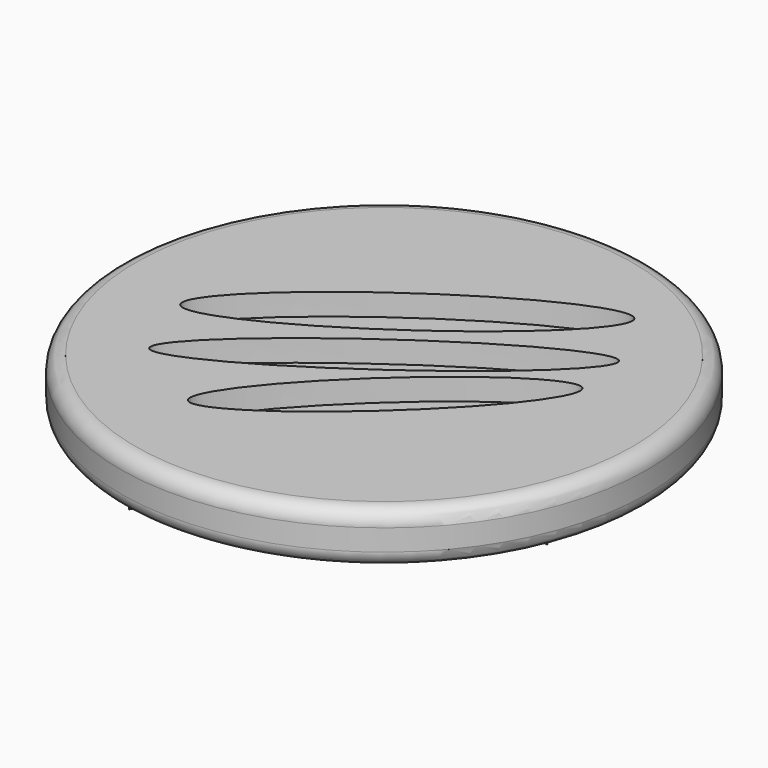
from build123d import *

# Parameters (mm, degrees)
F0_R     = 12.125
F1_DEPTH = 2.38
F2_R     = 0.7
F4_DEPTH = 1
F6_DEPTH = 0.3


with BuildPart() as f1:
    # F0 (on Top) → F1 (new body)
    with BuildSketch(Plane.XY):
        Circle(F0_R)
    extrude(amount=F1_DEPTH)

    # F2
    f2_edges = [f1.edges().sort_by_distance(p)[0] for p in [
        (-12.125, 0, 2.38),
        (-12.125, 0, 0),
    ]]
    fillet(f2_edges, radius=F2_R)

    # F3 (on face) → F4 (cut)
    with BuildSketch(Plane.XY.offset(2.38)):
        with BuildLine():
            add(Edge.make_bspline(
                [(5.2712131292, 7.7818746213), (3.8467154222, 9.8322880392), (-5.498151477, 1.820032668), (-14.8430183763, -6.1922227032), (-4.0736537701, -0.2303807499), (6.6957108361, 5.7314612034), (5.2712131292, 7.7818746213)],
                knots=[0, 0, 0, 2.0943951024, 2.0943951024, 4.1887902048, 4.1887902048, 6.2831853072, 6.2831853072, 6.2831853072], degree=2, weights=[1, 0.5, 1, 0.5, 1, 0.5, 1]))
        make_face()
        with BuildLine():
            add(Edge.make_bspline(
                [(6.8904868818, 4.87336865), (5.7039798615, 6.5509784607), (-4.038496951, -1.5978794196), (-13.7809737636, -9.7467372999), (-2.8519899308, -3.2754892303), (8.0769939021, 3.1957588393), (6.8904868818, 4.87336865)],
                knots=[0, 0, 0, 2.0943951024, 2.0943951024, 4.1887902048, 4.1887902048, 6.2831853072, 6.2831853072, 6.2831853072], degree=2, weights=[1, 0.5, 1, 0.5, 1, 0.5, 1]))
        make_face()
        with BuildLine():
            add(Edge.make_bspline(
                [(7.1830839306, 2.4121028949), (5.6929504977, 4.0377029223), (-1.4054138362, -3.9649092469), (-8.5037781701, -11.9675214162), (0.0847195967, -5.5905092743), (8.6732173636, 0.7865028676), (7.1830839306, 2.4121028949)],
                knots=[0, 0, 0, 2.0943951024, 2.0943951024, 4.1887902048, 4.1887902048, 6.2831853072, 6.2831853072, 6.2831853072], degree=2, weights=[1, 0.5, 1, 0.5, 1, 0.5, 1]))
        make_face()
    extrude(amount=-F4_DEPTH, mode=Mode.SUBTRACT)

    # F5 (on Top) → F6 (join)
    with BuildSketch(Plane.XY):
        Polygon((-4.9951509573, 10.1068597287), (-4.203192804, 2.3018257812), (1.1137669508, 4.6346894586), align=None)
        Polygon((1.1137669508, 4.6346894586), (4.5767141132, 1.5326938526), (8.2368152216, 7.7599906363), align=None)
        Polygon((-4.203192804, 2.3018257812), (-3.7820492652, -1.848696067), (2.1063844203, -2.6703255983), (4.5767141132, 1.5326938526), (1.1137669508, 4.6346894586), align=None)
        Polygon((-11.2787885591, -0.8026551805), (-3.7820492652, -1.848696067), (-4.203192804, 2.3018257812), align=None)
        Polygon((4.5767141132, 1.5326938526), (2.1063844203, -2.6703255983), (10.5903381482, -3.8541152608), align=None)
        Polygon((-3.7820492652, -1.848696067), (-2.8440519236, -11.0929990187), (2.1063844203, -2.6703255983), align=None)
    extrude(amount=-F6_DEPTH)


solid = f1.part
